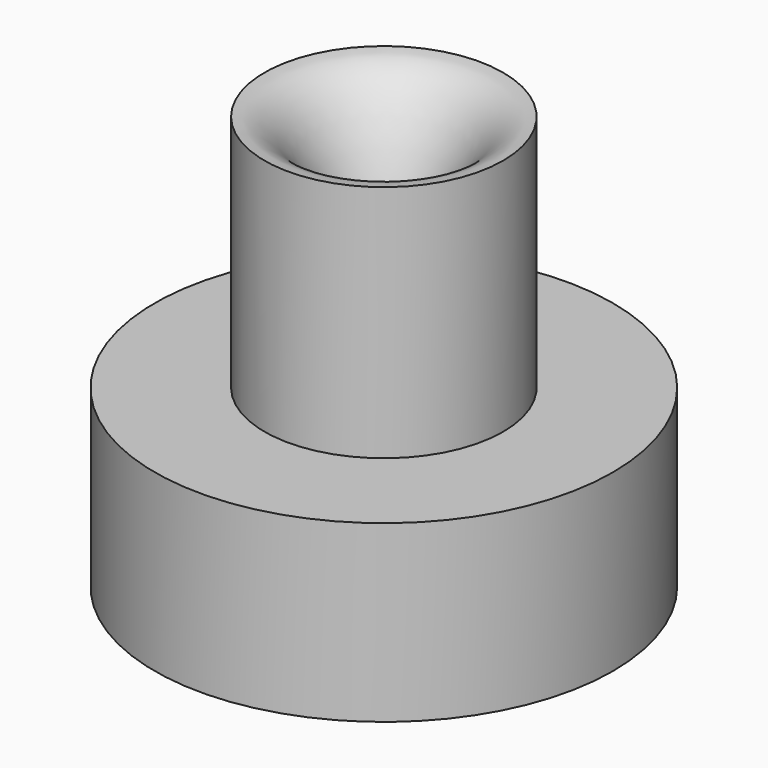
from build123d import *


with BuildPart() as f1:
    # F0 (on Front) → F1 (revolve)
    with BuildSketch(Plane.XZ):
        with BuildLine():
            Line((3.81, 0), (3.81, 7.62))
            add(Edge.make_bspline(
                [(3.81, 7.62), (0.889, 7.62), (0.889, 0)],
                knots=[0, 0, 0, 1.5707963268, 1.5707963268, 1.5707963268], degree=2, weights=[1, 0.7071067812, 1]))
            Line((0.889, 0), (3.81, 0))
        make_face()
        Polygon((7.3152, 0), (3.81, 0), (0.889, 0), (0.889, -1.27), (6.0452, -1.27), (6.0452, -5.334), (7.3152, -5.334), align=None)
        Polygon((7.3152, -5.588), (7.3152, -5.334), (6.0452, -5.334), (5.5372, -5.334), (5.5372, -5.588), align=None)
    revolve(axis=Axis((0, 0, 8.5612153634), (0, 0, 1)))


solid = f1.part
